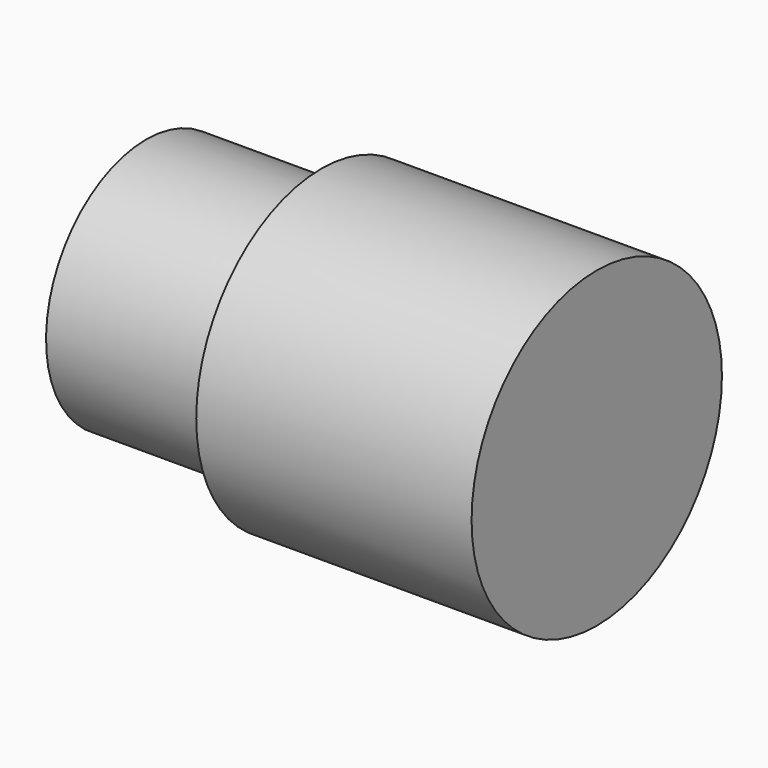
from build123d import *

# Parameters (mm, degrees)
F3_D     = 6.8
F3_DEPTH = 15.75
F3_TIP   = 2.0429261047


with BuildPart() as f1:
    # F0 (on Front) → F1 (revolve)
    with BuildSketch(Plane.XZ):
        Polygon((-36, 10), (-36, 0), (0, 0), (0, 12.5), (-22, 12.5), (-22, 10), align=None)
    revolve(axis=Axis((-18, 0, 0), (1, 0, 0)))

    # F3
    with Locations(Plane(origin=(-36, 0, 0), x_dir=(0, -1, 0), z_dir=(-1, 0, 0))):
        with Locations((0, 0)):
            Hole(F3_D / 2, depth=F3_DEPTH)
            with Locations((0, 0, -(F3_DEPTH + F3_TIP / 2))):  # 118° drill point
                Cone(0, F3_D / 2, F3_TIP, mode=Mode.SUBTRACT)


solid = f1.part
